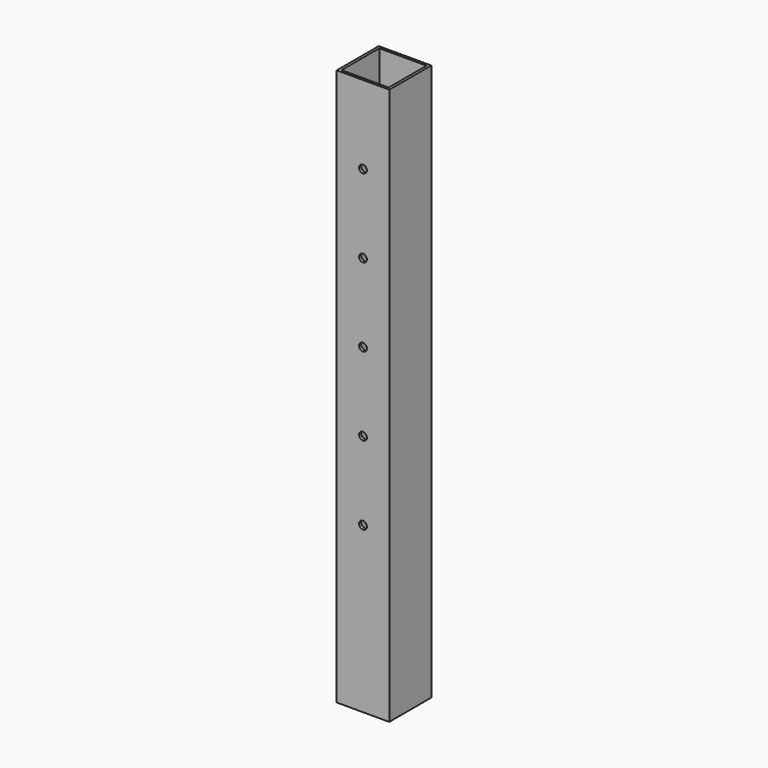
from build123d import *

# Parameters (mm, degrees)
F0_W     = 25.527
F0_H     = 25.527
F0_W_2   = 22.987
F0_H_2   = 22.987
F1_DEPTH = 228.6
F2_R     = 1.905
F3_DEPTH = 25.528
F4_W     = 25.527
F4_H     = 25.527
F4_W_2   = 22.987
F4_H_2   = 22.987
F5_DEPTH = 41.9608


with BuildPart() as f1:
    # F0 (on Top) → F1 (new body)
    with BuildSketch(Plane.XY):
        Rectangle(F0_W, F0_H)
        Rectangle(F0_W_2, F0_H_2, mode=Mode.SUBTRACT)
    extrude(amount=F1_DEPTH)

    # F2 (on face) → F3 (cut, through all)
    with BuildSketch(Plane.XZ.offset(12.7635)):
        with Locations((0, 38.1)):
            Circle(F2_R)
        with Locations((0, 76.2)):
            Circle(F2_R)
        with Locations((0, 114.3)):
            Circle(F2_R)
        with Locations((0, 152.4)):
            Circle(F2_R)
        with Locations((0, 190.5)):
            Circle(F2_R)
    extrude(amount=-F3_DEPTH, mode=Mode.SUBTRACT)

    # F4 (on face) → F5 (join)
    with BuildSketch(Plane(origin=(0, 0, 0), x_dir=(1, 0, 0), z_dir=(0, 0, -1))):
        Rectangle(F4_W, F4_H)
        Rectangle(F4_W_2, F4_H_2, mode=Mode.SUBTRACT)
    extrude(amount=F5_DEPTH)


solid = f1.part
